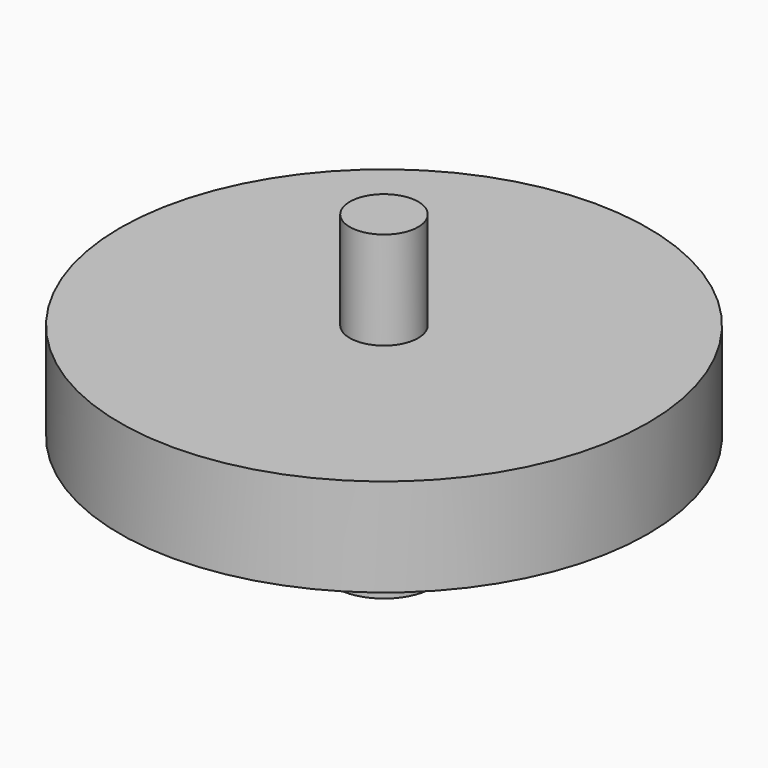
from build123d import *

# Parameters (mm, degrees)
SKETCH004_R           = 54
EXTRUDE004_DEPTH      = 20
SKETCH003_R           = 10
EXTRUDE003_DEPTH      = 30
EXTRUDE003_DEPTH_BACK = 14
SKETCH005_R           = 7
EXTRUDE005_DEPTH      = 20


with BuildPart() as outercylinder:
    # Sketch004 (on Face3 of Extrude003) → Extrude004 (new body)
    with BuildSketch(Plane.XY.offset(98.4)):
        with Locations((-58.7, 20.37)):
            Circle(SKETCH004_R)
    extrude(amount=-EXTRUDE004_DEPTH)


with BuildPart() as innercylinder:
    # Sketch003 (on Face4 of Extrude002) → Extrude003 (new body, two sides)
    with BuildSketch(Plane.XY.offset(68.4)) as extrude003_sk:
        with Locations((-58.7, 20.37)):
            Circle(SKETCH003_R)
    extrude(amount=EXTRUDE003_DEPTH)
    extrude(extrude003_sk.sketch, amount=-EXTRUDE003_DEPTH_BACK)


with BuildPart() as motoradapter:
    # Sketch005 (on Face3 of Extrude003) → Extrude005 (new body)
    with BuildSketch(Plane.XY.offset(98.4)):
        with Locations((-58.7, 20.37)):
            Circle(SKETCH005_R)
    extrude(amount=EXTRUDE005_DEPTH)

    # Fusion005: union outerCylinder, innerCylinder
    add(outercylinder.part)
    add(innercylinder.part)


solid = motoradapter.part
